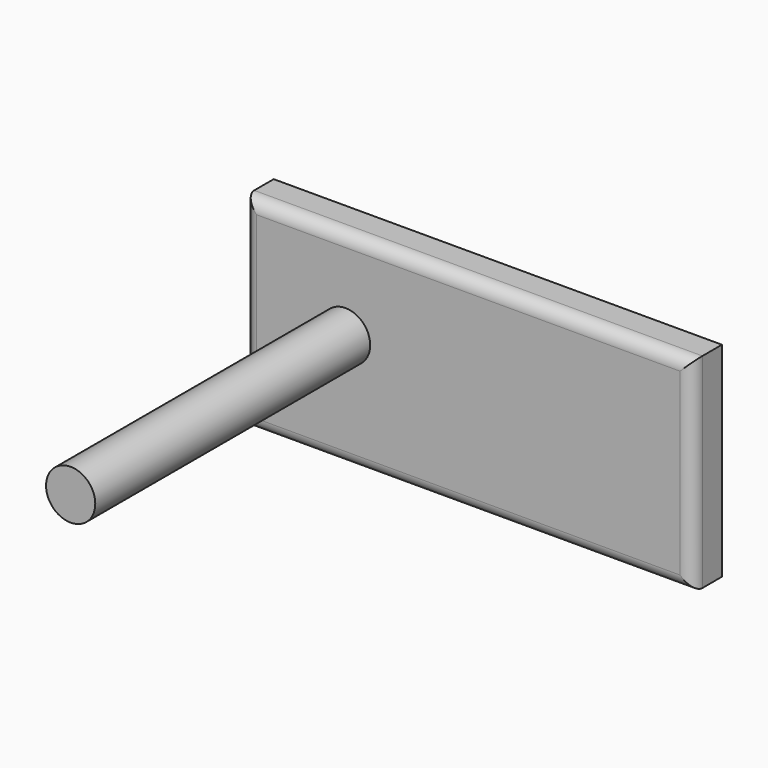
from build123d import *

# Parameters (mm, degrees)
F0_W     = 183.534793
F0_H     = 83.64898
F1_DEPTH = 15.056554
F2_R     = 5.08
F3_R     = 10.078833
F4_DEPTH = 140.712947


with BuildPart() as f1:
    # F0 (on Front) → F1 (new body)
    with BuildSketch(Plane.XZ):
        with Locations((0.603248, 41.82449)):
            Rectangle(F0_W, F0_H)
    extrude(amount=F1_DEPTH)

    # F2
    f2_edges = [f1.edges().sort_by_distance(p)[0] for p in [
        (0.603247, -15.056554, 83.64898),
        (-91.164149, -15.056554, 41.82449),
        (92.370644, -15.056554, 41.82449),
        (0.603247, -15.056554, 0),
    ]]
    fillet(f2_edges, radius=F2_R)

    # F3 (on face) → F4 (join)
    with BuildSketch(Plane.XZ.offset(15.056554)):
        with Locations((-49.689099, 46.704315)):
            Circle(F3_R)
    extrude(amount=F4_DEPTH)


solid = f1.part
